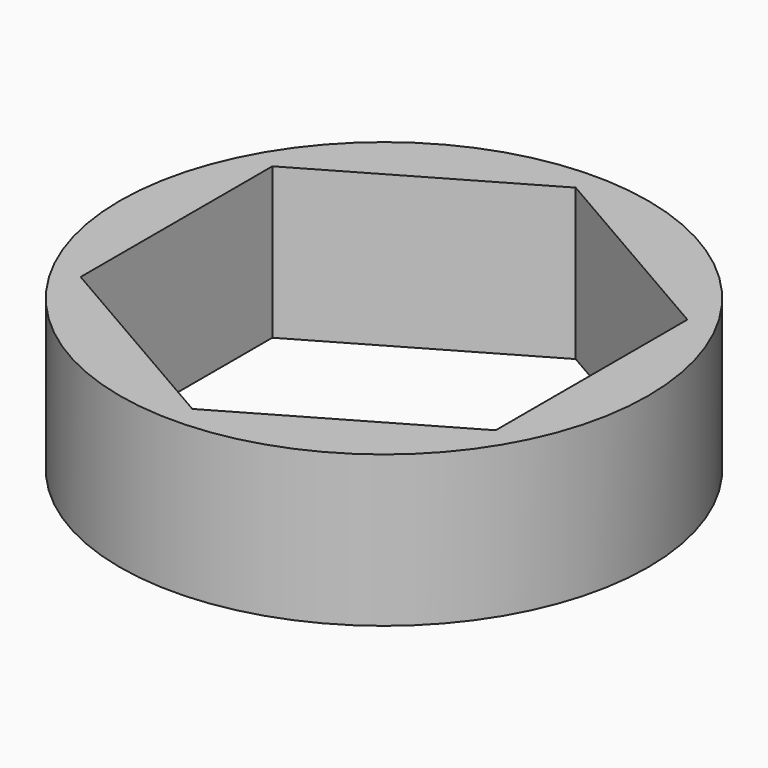
from build123d import *

# Parameters (mm, degrees)
F0_R     = 44.45
F1_DEPTH = 25.4


with BuildPart() as f1:
    # F0 (on Top) → F1 (new body)
    with BuildSketch(Plane.XY):
        Circle(F0_R)
        Polygon((0, 40.327916), (34.925, 20.163958), (34.925, -20.163958), (0, -40.327916), (-34.925, -20.163958), (-34.925, 20.163958), align=None, mode=Mode.SUBTRACT)
    extrude(amount=-F1_DEPTH)


solid = f1.part
